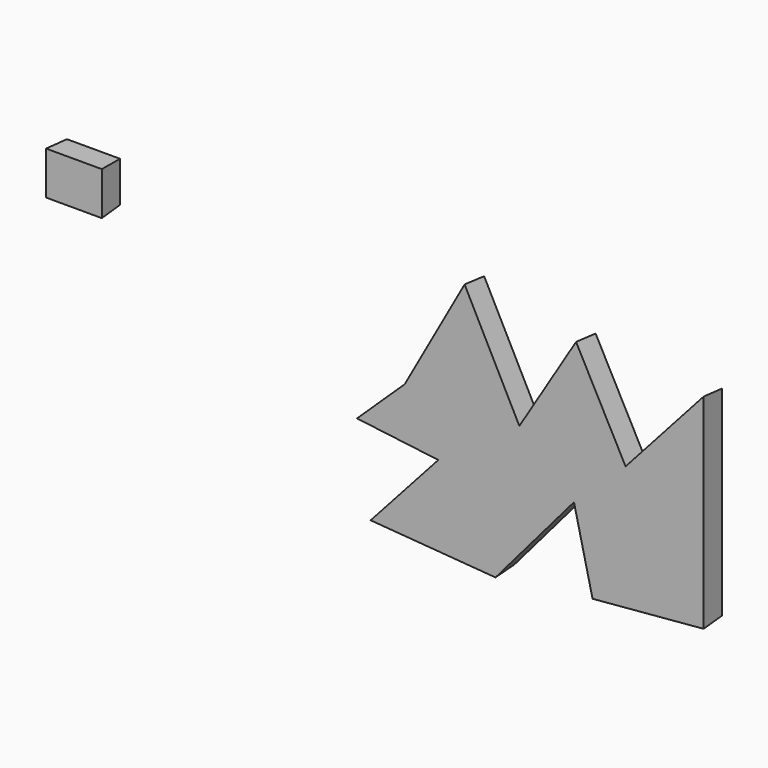
from build123d import *

# Parameters (mm, degrees)
F1_DEPTH = 27.94
F1_TAPER = -3.0006
F0_W     = 60.5743676424
F0_H     = 46.2897308171


with BuildPart() as f1:
    # F0 (on Front) → F1 (new body)
    with BuildSketch(Plane.XZ):
        Polygon((327.8187215328, 63.4599551558), (260.7910633087, -56.7275770009), (208.4016352892, -106.8057119846), (300.8535802364, -118.3622032404), (223.8102853298, -203.8802504539), (362.4882102013, -214.6663069725), (453.3993005753, -108.346581459), (474.9714136124, -200.0280916691), (599.0111231804, -189.2420351505), (599.0111231804, 38.8061068952), (511.1817717552, -59.0388737619), (454.9401700497, 47.2808666527), (390.223801136, -58.26844275), align=None)
    extrude(amount=F1_DEPTH, taper=F1_TAPER)


with BuildPart() as f1b:
    # F0 (on Front) → F1, piece 2 (new body)
    with BuildSketch(Plane.XZ):
        with Locations((-117.6631078124, 23.1448654085)):
            Rectangle(F0_W, F0_H)
    extrude(amount=F1_DEPTH, taper=F1_TAPER)


solid = Compound([f1.part, f1b.part])
